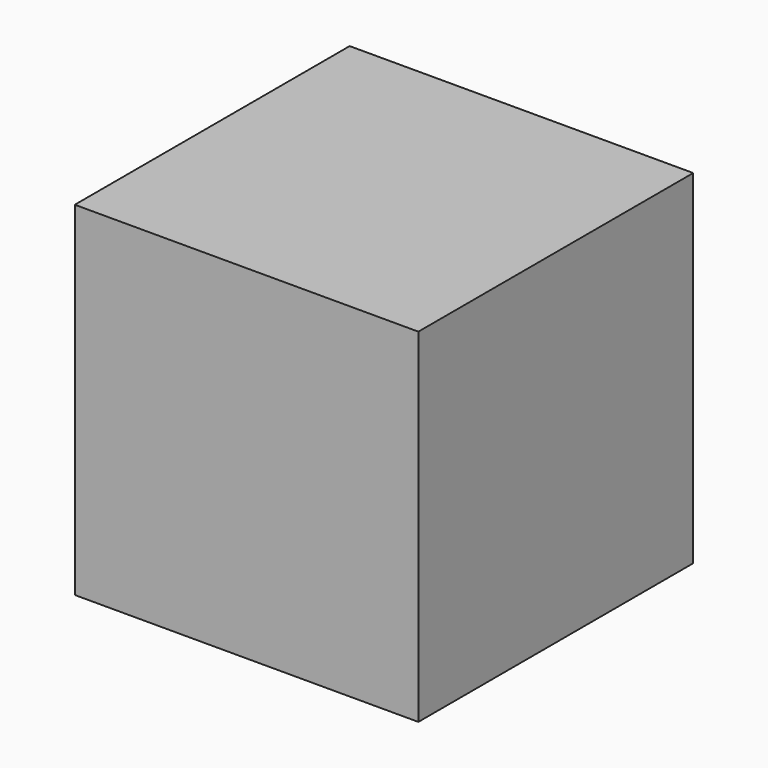
from build123d import *

# Parameters (mm, degrees)
SKETCH_W  = 3
SKETCH_H  = 3
PAD_DEPTH = 3


with BuildPart() as part:
    # Sketch → Pad (new body)
    with BuildSketch(Plane.XY):
        with Locations((1.5, 1.5)):
            Rectangle(SKETCH_W, SKETCH_H)
    extrude(amount=PAD_DEPTH)


solid = part.part
